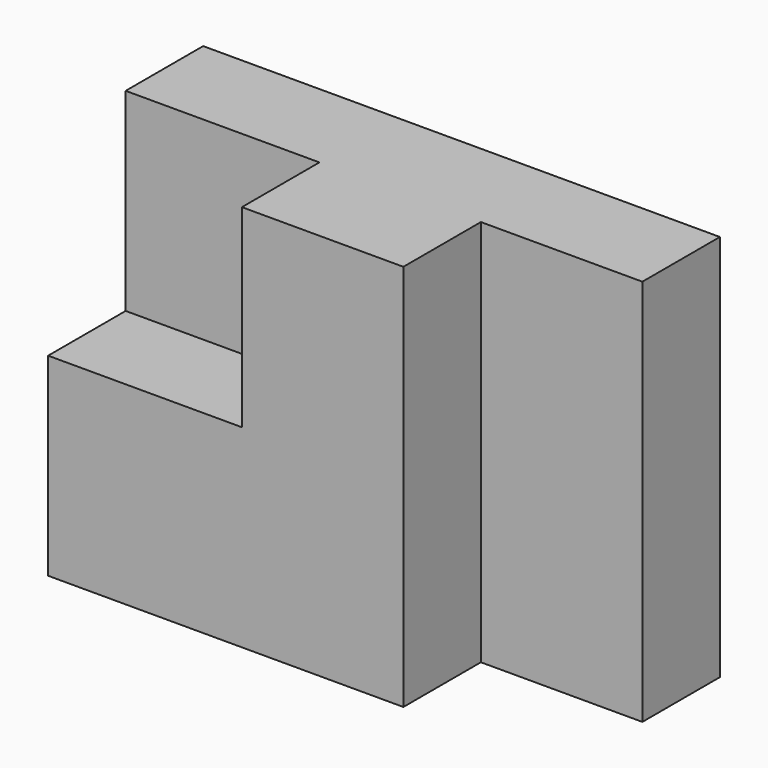
from build123d import *

# Parameters (mm, degrees)
F0_W     = 80
F0_H     = 60
F1_DEPTH = 15
F3_DEPTH = 15


with BuildPart() as f1:
    # F0 (on Front) → F1 (new body)
    with BuildSketch(Plane.XZ):
        with Locations((-40, 30)):
            Rectangle(F0_W, F0_H)
    extrude(amount=F1_DEPTH)

    # F2 (on face) → F3 (join)
    with BuildSketch(Plane.XZ.offset(15)):
        Polygon((-80, 0), (-25, 0), (-25, 60), (-50, 60), (-50, 30), (-80, 30), align=None)
    extrude(amount=F3_DEPTH)


solid = f1.part
